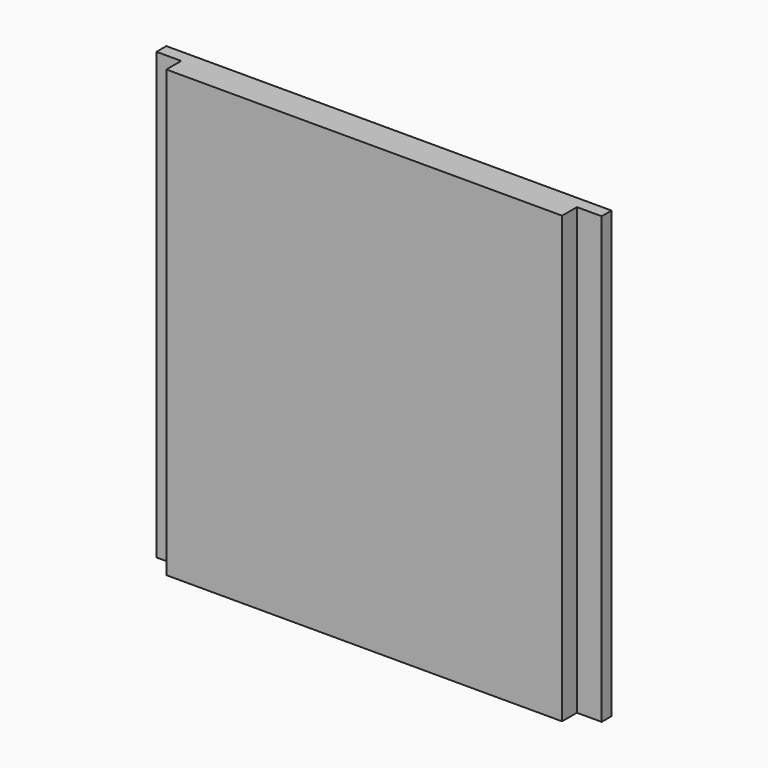
from build123d import *

# Parameters (mm, degrees)
SKETCH017_W               = 32
SKETCH017_H               = 36
EXTRUDE015_DEPTH          = 1.5
SKETCH016_W               = 36
SKETCH016_H               = 36
EXTRUDE014_DEPTH          = 1
FUSION009_PLACEMENT_ANGLE = 90


with BuildPart() as extrude015:
    # Sketch017 (on Face6 of Extrude014) → Extrude015 (new body)
    with BuildSketch(Plane.XY.offset(1)):
        Rectangle(SKETCH017_W, SKETCH017_H)
    extrude(amount=EXTRUDE015_DEPTH)


with BuildPart() as fusion009:
    # Sketch016 → Extrude014 (new body)
    with BuildSketch(Plane.XY):
        Rectangle(SKETCH016_W, SKETCH016_H)
    extrude(amount=EXTRUDE014_DEPTH)

    # Fusion009: union Extrude015
    add(extrude015.part)


with BuildPart() as fusion009_1:
    # Fusion009 placement: moved
    add(fusion009.part.moved(Location((0, -17.5, 0))).rotate(Axis((0, -17.5, 0), (1, 0, 0)), FUSION009_PLACEMENT_ANGLE))


solid = fusion009_1.part
